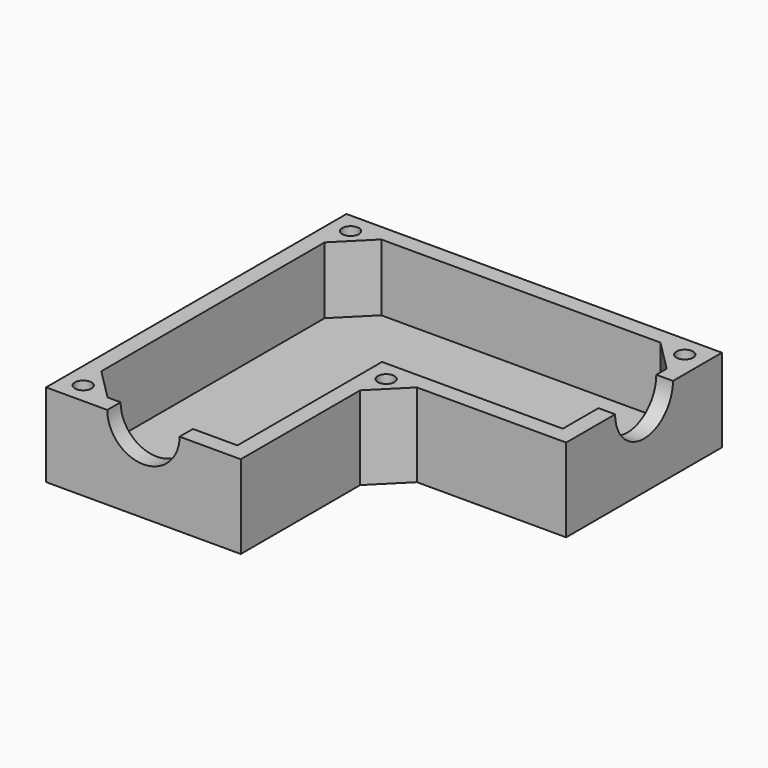
from build123d import *

# Parameters (mm, degrees)
F0_W      = 8.75
F0_H      = 8.75
F1_DEPTH  = 7.5
F2_T      = -1.5
F4_DEPTH  = 7.5
F6_DEPTH  = 3
F7_R      = 3.25
F8_DEPTH  = 32.25
F9_R      = 3.25
F10_DEPTH = 32.25


with BuildPart() as f1:
    # F0 (on Top) → F1 (new body)
    with BuildSketch(Plane.XY):
        Polygon((25, 0), (25, 8.75), (8.75, 8.75), (0, 8.75), (0, 0), align=None)
        Polygon((25, -8.75), (25, 0), (0, 0), (0, -25), (8.75, -25), (8.75, -8.75), align=None)
        with Locations((-4.375, 4.375)):
            Rectangle(F0_W, F0_H)
        Polygon((0, -25), (0, 0), (-8.75, 0), (-8.75, -8.75), (-8.75, -25), align=None)
    extrude(amount=F1_DEPTH)

    # F2
    f2_openings = [f1.faces().sort_by_distance(p)[0] for p in [
        (5.484375, -5.484375, 7.5),
    ]]
    offset(amount=F2_T, openings=f2_openings, kind=Kind.INTERSECTION)

    # F3 (on face) → F4 (join, through all)
    with BuildSketch(Plane.XY.offset(7.5)):
        Polygon((-4.4215728753, 7.25), (-7.25, 7.25), (-7.25, 4.4215728753), align=None)
        Polygon((11.5784271247, -8.75), (8.75, -8.75), (8.75, -11.5784271247), align=None)
        Polygon((23.5, 7.25), (20.6715728753, 7.25), (23.5, 4.4215728753), align=None)
        Polygon((-4.4215728753, -23.5), (-7.25, -20.6715728753), (-7.25, -23.5), align=None)
    extrude(amount=-F4_DEPTH)

    # F5 (on face) → F6 (cut)
    with BuildSketch(Plane.XY.offset(7.5)):
        with BuildLine():
            ThreePointArc((-6.3661165235, 6.3661165235), (-6.20353696, 6.6094340351), (-6.1464466094, 6.8964466094))
            ThreePointArc((-6.1464466094, 6.8964466094), (-7.5893562588, 7.1834591837), (-6.3661165235, 6.3661165235))
        make_face()
        with BuildLine():
            ThreePointArc((22.6161165235, 6.3661165235), (23.4334591837, 6.20353696), (23.8964466094, 6.8964466094))
            ThreePointArc((23.8964466094, 6.8964466094), (22.8594340351, 7.5893562588), (22.6161165235, 6.3661165235))
        make_face()
        with BuildLine():
            ThreePointArc((9.6338834765, -9.6338834765), (9.79646304, -9.3905659649), (9.8535533906, -9.1035533906))
            ThreePointArc((9.8535533906, -9.1035533906), (8.4106437412, -8.8165408163), (9.6338834765, -9.6338834765))
        make_face()
        with BuildLine():
            ThreePointArc((-6.3661165235, -22.6161165235), (-7.5893562588, -23.4334591837), (-6.1464466094, -23.1464466094))
            ThreePointArc((-6.1464466094, -23.1464466094), (-6.20353696, -22.8594340351), (-6.3661165235, -22.6161165235))
        make_face()
    extrude(amount=-F6_DEPTH, mode=Mode.SUBTRACT)

    # F7 (on face) → F8 (cut, through all)
    with BuildSketch(Plane.XZ.offset(25)):
        with Locations((0, 7.5)):
            Circle(F7_R)
    extrude(amount=-F8_DEPTH, mode=Mode.SUBTRACT)

    # F9 (on face) → F10 (cut, through all)
    with BuildSketch(Plane.YZ.offset(25)):
        with Locations((0, 7.5)):
            Circle(F9_R)
    extrude(amount=-F10_DEPTH, mode=Mode.SUBTRACT)


solid = f1.part
